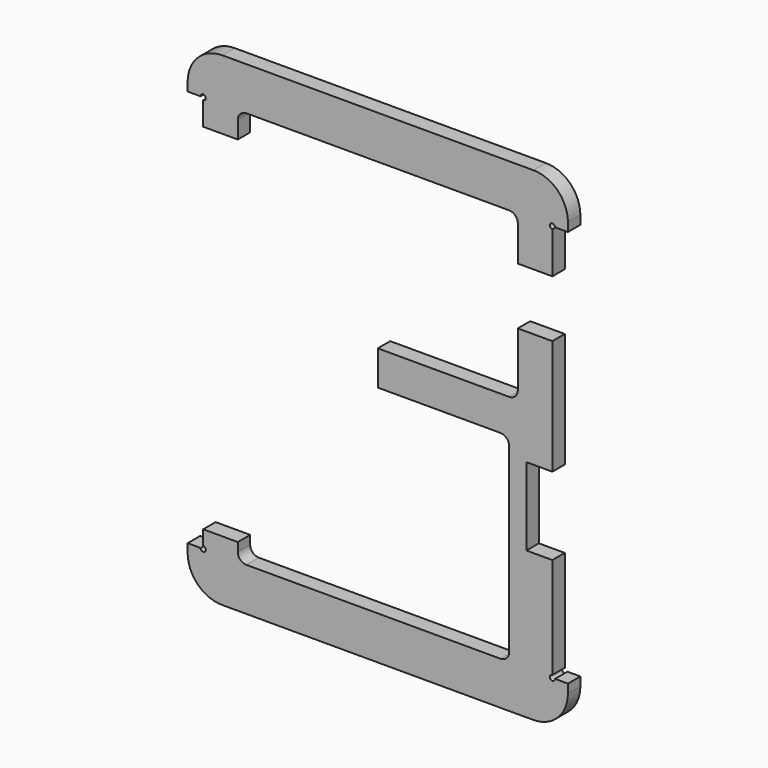
from build123d import *

# Parameters (mm, degrees)
F1_DEPTH = 9


with BuildPart() as f1:
    # F0 (on Front) → F1 (new body)
    with BuildSketch(Plane.XZ):
        with BuildLine():
            Line((80.58994, 134.787209), (-99.41006, 134.787209))
            ThreePointArc((-99.41006, 134.787209), (-113.552195, 128.929344), (-119.41006, 114.787209))
            Line((-119.41006, 114.787209), (-119.41006, 109.787209))
            Line((-119.41006, 109.787209), (-111.91006, 109.787209))
            ThreePointArc((-111.91006, 109.787209), (-110.41006, 111.287209), (-108.91006, 109.787209))
            ThreePointArc((-108.91006, 109.787209), (-109.349399, 108.726549), (-110.41006, 108.287209))
            Line((-110.41006, 108.287209), (-110.41006, 94.787209))
            Line((-110.41006, 94.787209), (-90.41006, 94.787209))
            Line((-90.41006, 94.787209), (-90.41006, 104.787209))
            ThreePointArc((-90.41006, 104.787209), (-88.945593, 108.322743), (-85.41006, 109.787209))
            Line((-85.41006, 109.787209), (66.589941, 109.787209))
            ThreePointArc((66.589941, 109.787209), (70.125475, 108.322743), (71.589941, 104.787209))
            Line((71.589941, 104.787209), (71.589941, 84.287209))
            Line((71.589941, 84.287209), (91.58994, 84.287209))
            Line((91.58994, 84.287209), (91.58994, 108.287209))
            ThreePointArc((91.58994, 108.287209), (90.52928, 110.847869), (93.08994, 109.787209))
            Line((93.08994, 109.787209), (100.58994, 109.787209))
            Line((100.58994, 109.787209), (100.58994, 114.787209))
            ThreePointArc((100.58994, 114.787209), (94.732076, 128.929344), (80.58994, 134.787209))
        make_face()
        with BuildLine():
            ThreePointArc((-119.41006, -125.212791), (-113.552195, -139.354927), (-99.41006, -145.212791))
            Line((-99.41006, -145.212791), (80.58994, -145.212791))
            ThreePointArc((80.58994, -145.212791), (94.732076, -139.354927), (100.58994, -125.212791))
            Line((100.58994, -125.212791), (100.58994, -120.212791))
            Line((100.58994, -120.212791), (93.08994, -120.212791))
            ThreePointArc((93.08994, -120.212791), (90.52928, -121.273451), (91.58994, -118.712791))
            Line((91.58994, -118.712791), (91.58994, -110.212791))
            Line((91.58994, -110.212791), (91.58994, -60.212791))
            Line((91.58994, -60.212791), (76.58994, -60.212791))
            Line((76.58994, -60.212791), (76.58994, -15.212791))
            Line((76.58994, -15.212791), (91.58994, -15.212791))
            Line((91.58994, -15.212791), (91.58994, 51.287209))
            Line((91.58994, 51.287209), (71.589941, 51.287209))
            Line((71.589941, 51.287209), (71.589941, 19.787209))
            ThreePointArc((71.589941, 19.787209), (70.125475, 16.251675), (66.589941, 14.787209))
            Line((66.589941, 14.787209), (-9.410059, 14.787209))
            Line((-9.410059, 14.787209), (-9.41006, -5.212791))
            Line((-9.41006, -5.212791), (61.589941, -5.212791))
            ThreePointArc((61.589941, -5.212791), (65.125475, -6.677257), (66.589941, -10.212791))
            Line((66.589941, -10.212791), (66.58994, -35.874643))
            Line((66.58994, -35.874643), (66.589941, -115.212791))
            ThreePointArc((66.589941, -115.212791), (65.125475, -118.748325), (61.589941, -120.212791))
            Line((61.589941, -120.212791), (-85.41006, -120.212791))
            ThreePointArc((-85.41006, -120.212791), (-88.945593, -118.748325), (-90.41006, -115.212791))
            Line((-90.41006, -115.212791), (-90.41006, -110.212791))
            Line((-90.41006, -110.212791), (-110.41006, -110.212791))
            Line((-110.41006, -110.212791), (-110.41006, -118.712791))
            ThreePointArc((-110.41006, -118.712791), (-109.349399, -119.152131), (-108.91006, -120.212791))
            ThreePointArc((-108.91006, -120.212791), (-110.41006, -121.712791), (-111.91006, -120.212791))
            Line((-111.91006, -120.212791), (-119.41006, -120.212791))
            Line((-119.41006, -120.212791), (-119.41006, -125.212791))
        make_face()
    extrude(amount=-F1_DEPTH)


solid = f1.part
